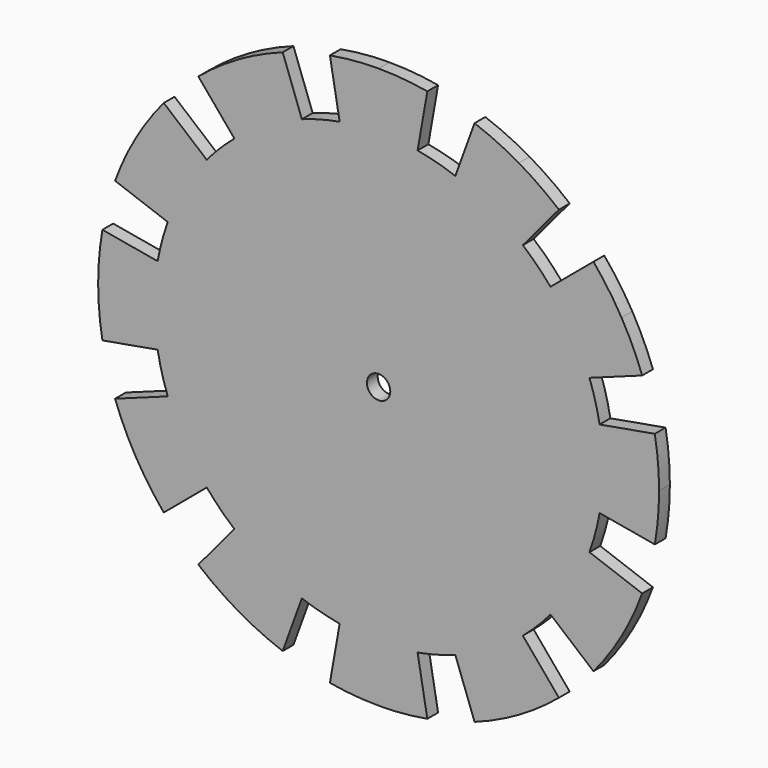
from build123d import *

# Parameters (mm, degrees)
F1_DEPTH = 3
F2_R     = 2.6
F3_DEPTH = 3.001


with BuildPart() as f1:
    # F0 (on Front) → F1 (new body)
    with BuildSketch(Plane.XZ):
        with BuildLine():
            Line((0, 0), (50, 0))
            ThreePointArc((50, 0), (49.8097349046, 4.3577871374), (49.2403876506, 8.6824088833))
            Line((49.2403876506, 8.6824088833), (0, 0))
        make_face()
        with BuildLine():
            Line((62.5, 0), (50, 0))
            ThreePointArc((50, 0), (49.8097349046, -4.3577871374), (49.2403876506, -8.6824088833))
            Line((49.2403876506, -8.6824088833), (61.5504845633, -10.8530111042))
            ThreePointArc((61.5504845633, -10.8530111042), (62.2621686307, -5.4472339217), (62.5, 0))
        make_face()
        with BuildLine():
            ThreePointArc((49.2403876506, -8.6824088833), (49.8097349046, -4.3577871374), (50, 0))
            Line((50, 0), (0, 0))
            Line((0, 0), (49.2403876506, -8.6824088833))
        make_face()
        with BuildLine():
            ThreePointArc((49.2403876506, 8.6824088833), (49.8097349046, 4.3577871374), (50, 0))
            Line((50, 0), (62.5, 0))
            ThreePointArc((62.5, 0), (62.2621686307, 5.4472339217), (61.5504845633, 10.8530111042))
            Line((61.5504845633, 10.8530111042), (49.2403876506, 8.6824088833))
        make_face()
        with BuildLine():
            Line((0, 0), (49.2403876506, 8.6824088833))
            ThreePointArc((49.2403876506, 8.6824088833), (48.2962913145, 12.9409522551), (46.9846310393, 17.1010071663))
            Line((46.9846310393, 17.1010071663), (0, 0))
        make_face()
        with BuildLine():
            ThreePointArc((46.9846310393, -17.1010071663), (48.2962913145, -12.9409522551), (49.2403876506, -8.6824088833))
            Line((49.2403876506, -8.6824088833), (0, 0))
            Line((0, 0), (46.9846310393, -17.1010071663))
        make_face()
        with BuildLine():
            Line((-8.6824088833, 49.2403876506), (0, 0))
            Line((0, 0), (0, 50))
            ThreePointArc((0, 50), (-4.3577871374, 49.8097349046), (-8.6824088833, 49.2403876506))
        make_face()
        with BuildLine():
            Line((8.6824088833, -49.2403876506), (0, 0))
            Line((0, 0), (0, -50))
            ThreePointArc((0, -50), (4.3577871374, -49.8097349046), (8.6824088833, -49.2403876506))
        make_face()
        with BuildLine():
            Line((-49.2403876506, -8.6824088833), (0, 0))
            Line((0, 0), (-50, 0))
            ThreePointArc((-50, 0), (-49.8097349046, -4.3577871374), (-49.2403876506, -8.6824088833))
        make_face()
        with BuildLine():
            Line((17.1010071663, 46.9846310393), (0, 0))
            Line((0, 0), (25, 43.3012701892))
            ThreePointArc((25, 43.3012701892), (21.130913087, 45.3153893518), (17.1010071663, 46.9846310393))
        make_face()
        with BuildLine():
            Line((38.3022221559, 32.1393804843), (0, 0))
            Line((0, 0), (43.3012701892, 25))
            ThreePointArc((43.3012701892, 25), (40.9576022144, 28.6788218176), (38.3022221559, 32.1393804843))
        make_face()
        with BuildLine():
            Line((46.9846310393, -17.1010071663), (0, 0))
            Line((0, 0), (43.3012701892, -25))
            ThreePointArc((43.3012701892, -25), (45.3153893518, -21.130913087), (46.9846310393, -17.1010071663))
        make_face()
        with BuildLine():
            Line((32.1393804843, -38.3022221559), (0, 0))
            Line((0, 0), (25, -43.3012701892))
            ThreePointArc((25, -43.3012701892), (28.6788218176, -40.9576022144), (32.1393804843, -38.3022221559))
        make_face()
        with BuildLine():
            Line((-32.1393804843, 38.3022221559), (0, 0))
            Line((0, 0), (-25, 43.3012701892))
            ThreePointArc((-25, 43.3012701892), (-28.6788218176, 40.9576022144), (-32.1393804843, 38.3022221559))
        make_face()
        with BuildLine():
            Line((-46.9846310393, 17.1010071663), (0, 0))
            Line((0, 0), (-43.3012701892, 25))
            ThreePointArc((-43.3012701892, 25), (-45.3153893518, 21.130913087), (-46.9846310393, 17.1010071663))
        make_face()
        with BuildLine():
            Line((-38.3022221559, -32.1393804843), (0, 0))
            Line((0, 0), (-43.3012701892, -25))
            ThreePointArc((-43.3012701892, -25), (-40.9576022144, -28.6788218176), (-38.3022221559, -32.1393804843))
        make_face()
        with BuildLine():
            Line((-17.1010071663, -46.9846310393), (0, 0))
            Line((0, 0), (-25, -43.3012701892))
            ThreePointArc((-25, -43.3012701892), (-21.130913087, -45.3153893518), (-17.1010071663, -46.9846310393))
        make_face()
        with BuildLine():
            Line((-17.1010071663, 46.9846310393), (0, 0))
            Line((0, 0), (-8.6824088833, 49.2403876506))
            ThreePointArc((-8.6824088833, 49.2403876506), (-12.9409522551, 48.2962913145), (-17.1010071663, 46.9846310393))
        make_face()
        with BuildLine():
            Line((0, 50), (0, 0))
            Line((0, 0), (8.6824088833, 49.2403876506))
            ThreePointArc((8.6824088833, 49.2403876506), (4.3577871374, 49.8097349046), (0, 50))
        make_face()
        with BuildLine():
            Line((8.6824088833, 49.2403876506), (0, 0))
            Line((0, 0), (17.1010071663, 46.9846310393))
            ThreePointArc((17.1010071663, 46.9846310393), (12.9409522551, 48.2962913145), (8.6824088833, 49.2403876506))
        make_face()
        with BuildLine():
            Line((25, 43.3012701892), (0, 0))
            Line((0, 0), (32.1393804843, 38.3022221559))
            ThreePointArc((32.1393804843, 38.3022221559), (28.6788218176, 40.9576022144), (25, 43.3012701892))
        make_face()
        with BuildLine():
            Line((32.1393804843, 38.3022221559), (0, 0))
            Line((0, 0), (38.3022221559, 32.1393804843))
            ThreePointArc((38.3022221559, 32.1393804843), (35.3553390593, 35.3553390593), (32.1393804843, 38.3022221559))
        make_face()
        with BuildLine():
            Line((43.3012701892, 25), (0, 0))
            Line((0, 0), (46.9846310393, 17.1010071663))
            ThreePointArc((46.9846310393, 17.1010071663), (45.3153893518, 21.130913087), (43.3012701892, 25))
        make_face()
        with BuildLine():
            Line((43.3012701892, -25), (0, 0))
            Line((0, 0), (38.3022221559, -32.1393804843))
            ThreePointArc((38.3022221559, -32.1393804843), (40.9576022144, -28.6788218176), (43.3012701892, -25))
        make_face()
        with BuildLine():
            Line((38.3022221559, -32.1393804843), (0, 0))
            Line((0, 0), (32.1393804843, -38.3022221559))
            ThreePointArc((32.1393804843, -38.3022221559), (35.3553390593, -35.3553390593), (38.3022221559, -32.1393804843))
        make_face()
        with BuildLine():
            Line((25, -43.3012701892), (0, 0))
            Line((0, 0), (17.1010071663, -46.9846310393))
            ThreePointArc((17.1010071663, -46.9846310393), (21.130913087, -45.3153893518), (25, -43.3012701892))
        make_face()
        with BuildLine():
            Line((17.1010071663, -46.9846310393), (0, 0))
            Line((0, 0), (8.6824088833, -49.2403876506))
            ThreePointArc((8.6824088833, -49.2403876506), (12.9409522551, -48.2962913145), (17.1010071663, -46.9846310393))
        make_face()
        with BuildLine():
            Line((0, -50), (0, 0))
            Line((0, 0), (-8.6824088833, -49.2403876506))
            ThreePointArc((-8.6824088833, -49.2403876506), (-4.3577871374, -49.8097349046), (0, -50))
        make_face()
        with BuildLine():
            Line((-8.6824088833, -49.2403876506), (0, 0))
            Line((0, 0), (-17.1010071663, -46.9846310393))
            ThreePointArc((-17.1010071663, -46.9846310393), (-12.9409522551, -48.2962913145), (-8.6824088833, -49.2403876506))
        make_face()
        with BuildLine():
            Line((-25, -43.3012701892), (0, 0))
            Line((0, 0), (-32.1393804843, -38.3022221559))
            ThreePointArc((-32.1393804843, -38.3022221559), (-28.6788218176, -40.9576022144), (-25, -43.3012701892))
        make_face()
        with BuildLine():
            Line((-32.1393804843, -38.3022221559), (0, 0))
            Line((0, 0), (-38.3022221559, -32.1393804843))
            ThreePointArc((-38.3022221559, -32.1393804843), (-35.3553390593, -35.3553390593), (-32.1393804843, -38.3022221559))
        make_face()
        with BuildLine():
            Line((-43.3012701892, -25), (0, 0))
            Line((0, 0), (-46.9846310393, -17.1010071663))
            ThreePointArc((-46.9846310393, -17.1010071663), (-45.3153893518, -21.130913087), (-43.3012701892, -25))
        make_face()
        with BuildLine():
            Line((-46.9846310393, -17.1010071663), (0, 0))
            Line((0, 0), (-49.2403876506, -8.6824088833))
            ThreePointArc((-49.2403876506, -8.6824088833), (-48.2962913145, -12.9409522551), (-46.9846310393, -17.1010071663))
        make_face()
        with BuildLine():
            Line((-49.2403876506, 8.6824088833), (0, 0))
            Line((0, 0), (-46.9846310393, 17.1010071663))
            ThreePointArc((-46.9846310393, 17.1010071663), (-48.2962913145, 12.9409522551), (-49.2403876506, 8.6824088833))
        make_face()
        with BuildLine():
            Line((-43.3012701892, 25), (0, 0))
            Line((0, 0), (-38.3022221559, 32.1393804843))
            ThreePointArc((-38.3022221559, 32.1393804843), (-40.9576022144, 28.6788218176), (-43.3012701892, 25))
        make_face()
        with BuildLine():
            Line((-38.3022221559, 32.1393804843), (0, 0))
            Line((0, 0), (-32.1393804843, 38.3022221559))
            ThreePointArc((-32.1393804843, 38.3022221559), (-35.3553390593, 35.3553390593), (-38.3022221559, 32.1393804843))
        make_face()
        with BuildLine():
            Line((-25, 43.3012701892), (0, 0))
            Line((0, 0), (-17.1010071663, 46.9846310393))
            ThreePointArc((-17.1010071663, 46.9846310393), (-21.130913087, 45.3153893518), (-25, 43.3012701892))
        make_face()
        with BuildLine():
            Line((-50, 0), (0, 0))
            Line((0, 0), (-49.2403876506, 8.6824088833))
            ThreePointArc((-49.2403876506, 8.6824088833), (-49.8097349046, 4.3577871374), (-50, 0))
        make_face()
        with BuildLine():
            ThreePointArc((43.3012701892, 25), (45.3153893518, 21.130913087), (46.9846310393, 17.1010071663))
            Line((46.9846310393, 17.1010071663), (58.7307887991, 21.3762589579))
            ThreePointArc((58.7307887991, 21.3762589579), (56.6442366898, 26.4136413588), (54.1265877365, 31.25))
            Line((54.1265877365, 31.25), (43.3012701892, 25))
        make_face()
        with BuildLine():
            Line((58.7307887991, -21.3762589579), (46.9846310393, -17.1010071663))
            ThreePointArc((46.9846310393, -17.1010071663), (45.3153893518, -21.130913087), (43.3012701892, -25))
            Line((43.3012701892, -25), (54.1265877365, -31.25))
            ThreePointArc((54.1265877365, -31.25), (56.6442366898, -26.4136413588), (58.7307887991, -21.3762589579))
        make_face()
        with BuildLine():
            Line((0, 62.5), (0, 50))
            ThreePointArc((0, 50), (4.3577871374, 49.8097349046), (8.6824088833, 49.2403876506))
            Line((8.6824088833, 49.2403876506), (10.8530111042, 61.5504845633))
            ThreePointArc((10.8530111042, 61.5504845633), (5.4472339217, 62.2621686307), (0, 62.5))
        make_face()
        with BuildLine():
            ThreePointArc((-8.6824088833, 49.2403876506), (-4.3577871374, 49.8097349046), (0, 50))
            Line((0, 50), (0, 62.5))
            ThreePointArc((0, 62.5), (-5.4472339217, 62.2621686307), (-10.8530111042, 61.5504845633))
            Line((-10.8530111042, 61.5504845633), (-8.6824088833, 49.2403876506))
        make_face()
        with BuildLine():
            Line((0, -62.5), (0, -50))
            ThreePointArc((0, -50), (-4.3577871374, -49.8097349046), (-8.6824088833, -49.2403876506))
            Line((-8.6824088833, -49.2403876506), (-10.8530111042, -61.5504845633))
            ThreePointArc((-10.8530111042, -61.5504845633), (-5.4472339217, -62.2621686307), (0, -62.5))
        make_face()
        with BuildLine():
            ThreePointArc((8.6824088833, -49.2403876506), (4.3577871374, -49.8097349046), (0, -50))
            Line((0, -50), (0, -62.5))
            ThreePointArc((0, -62.5), (5.4472339217, -62.2621686307), (10.8530111042, -61.5504845633))
            Line((10.8530111042, -61.5504845633), (8.6824088833, -49.2403876506))
        make_face()
        with BuildLine():
            Line((-62.5, 0), (-50, 0))
            ThreePointArc((-50, 0), (-49.8097349046, 4.3577871374), (-49.2403876506, 8.6824088833))
            Line((-49.2403876506, 8.6824088833), (-61.5504845633, 10.8530111042))
            ThreePointArc((-61.5504845633, 10.8530111042), (-62.2621686307, 5.4472339217), (-62.5, 0))
        make_face()
        with BuildLine():
            ThreePointArc((-49.2403876506, -8.6824088833), (-49.8097349046, -4.3577871374), (-50, 0))
            Line((-50, 0), (-62.5, 0))
            ThreePointArc((-62.5, 0), (-62.2621686307, -5.4472339217), (-61.5504845633, -10.8530111042))
            Line((-61.5504845633, -10.8530111042), (-49.2403876506, -8.6824088833))
        make_face()
        with BuildLine():
            Line((31.25, 54.1265877365), (25, 43.3012701892))
            ThreePointArc((25, 43.3012701892), (28.6788218176, 40.9576022144), (32.1393804843, 38.3022221559))
            Line((32.1393804843, 38.3022221559), (40.1742256054, 47.8777776949))
            ThreePointArc((40.1742256054, 47.8777776949), (35.8485272719, 51.1970027681), (31.25, 54.1265877365))
        make_face()
        with BuildLine():
            ThreePointArc((17.1010071663, 46.9846310393), (21.130913087, 45.3153893518), (25, 43.3012701892))
            Line((25, 43.3012701892), (31.25, 54.1265877365))
            ThreePointArc((31.25, 54.1265877365), (26.4136413588, 56.6442366898), (21.3762589579, 58.7307887991))
            Line((21.3762589579, 58.7307887991), (17.1010071663, 46.9846310393))
        make_face()
        with BuildLine():
            ThreePointArc((38.3022221559, 32.1393804843), (40.9576022144, 28.6788218176), (43.3012701892, 25))
            Line((43.3012701892, 25), (54.1265877365, 31.25))
            ThreePointArc((54.1265877365, 31.25), (51.1970027681, 35.8485272719), (47.8777776949, 40.1742256054))
            Line((47.8777776949, 40.1742256054), (38.3022221559, 32.1393804843))
        make_face()
        with BuildLine():
            Line((54.1265877365, -31.25), (43.3012701892, -25))
            ThreePointArc((43.3012701892, -25), (40.9576022144, -28.6788218176), (38.3022221559, -32.1393804843))
            Line((38.3022221559, -32.1393804843), (47.8777776949, -40.1742256054))
            ThreePointArc((47.8777776949, -40.1742256054), (51.1970027681, -35.8485272719), (54.1265877365, -31.25))
        make_face()
        with BuildLine():
            Line((31.25, -54.1265877365), (25, -43.3012701892))
            ThreePointArc((25, -43.3012701892), (21.130913087, -45.3153893518), (17.1010071663, -46.9846310393))
            Line((17.1010071663, -46.9846310393), (21.3762589579, -58.7307887991))
            ThreePointArc((21.3762589579, -58.7307887991), (26.4136413588, -56.6442366898), (31.25, -54.1265877365))
        make_face()
        with BuildLine():
            ThreePointArc((32.1393804843, -38.3022221559), (28.6788218176, -40.9576022144), (25, -43.3012701892))
            Line((25, -43.3012701892), (31.25, -54.1265877365))
            ThreePointArc((31.25, -54.1265877365), (35.8485272719, -51.1970027681), (40.1742256054, -47.8777776949))
            Line((40.1742256054, -47.8777776949), (32.1393804843, -38.3022221559))
        make_face()
        with BuildLine():
            Line((-31.25, 54.1265877365), (-25, 43.3012701892))
            ThreePointArc((-25, 43.3012701892), (-21.130913087, 45.3153893518), (-17.1010071663, 46.9846310393))
            Line((-17.1010071663, 46.9846310393), (-21.3762589579, 58.7307887991))
            ThreePointArc((-21.3762589579, 58.7307887991), (-26.4136413588, 56.6442366898), (-31.25, 54.1265877365))
        make_face()
        with BuildLine():
            ThreePointArc((-32.1393804843, 38.3022221559), (-28.6788218176, 40.9576022144), (-25, 43.3012701892))
            Line((-25, 43.3012701892), (-31.25, 54.1265877365))
            ThreePointArc((-31.25, 54.1265877365), (-35.8485272719, 51.1970027681), (-40.1742256054, 47.8777776949))
            Line((-40.1742256054, 47.8777776949), (-32.1393804843, 38.3022221559))
        make_face()
        with BuildLine():
            Line((-54.1265877365, 31.25), (-43.3012701892, 25))
            ThreePointArc((-43.3012701892, 25), (-40.9576022144, 28.6788218176), (-38.3022221559, 32.1393804843))
            Line((-38.3022221559, 32.1393804843), (-47.8777776949, 40.1742256054))
            ThreePointArc((-47.8777776949, 40.1742256054), (-51.1970027681, 35.8485272719), (-54.1265877365, 31.25))
        make_face()
        with BuildLine():
            ThreePointArc((-46.9846310393, 17.1010071663), (-45.3153893518, 21.130913087), (-43.3012701892, 25))
            Line((-43.3012701892, 25), (-54.1265877365, 31.25))
            ThreePointArc((-54.1265877365, 31.25), (-56.6442366898, 26.4136413588), (-58.7307887991, 21.3762589579))
            Line((-58.7307887991, 21.3762589579), (-46.9846310393, 17.1010071663))
        make_face()
        with BuildLine():
            Line((-54.1265877365, -31.25), (-43.3012701892, -25))
            ThreePointArc((-43.3012701892, -25), (-45.3153893518, -21.130913087), (-46.9846310393, -17.1010071663))
            Line((-46.9846310393, -17.1010071663), (-58.7307887991, -21.3762589579))
            ThreePointArc((-58.7307887991, -21.3762589579), (-56.6442366898, -26.4136413588), (-54.1265877365, -31.25))
        make_face()
        with BuildLine():
            ThreePointArc((-38.3022221559, -32.1393804843), (-40.9576022144, -28.6788218176), (-43.3012701892, -25))
            Line((-43.3012701892, -25), (-54.1265877365, -31.25))
            ThreePointArc((-54.1265877365, -31.25), (-51.1970027681, -35.8485272719), (-47.8777776949, -40.1742256054))
            Line((-47.8777776949, -40.1742256054), (-38.3022221559, -32.1393804843))
        make_face()
        with BuildLine():
            Line((-31.25, -54.1265877365), (-25, -43.3012701892))
            ThreePointArc((-25, -43.3012701892), (-28.6788218176, -40.9576022144), (-32.1393804843, -38.3022221559))
            Line((-32.1393804843, -38.3022221559), (-40.1742256054, -47.8777776949))
            ThreePointArc((-40.1742256054, -47.8777776949), (-35.8485272719, -51.1970027681), (-31.25, -54.1265877365))
        make_face()
        with BuildLine():
            ThreePointArc((-17.1010071663, -46.9846310393), (-21.130913087, -45.3153893518), (-25, -43.3012701892))
            Line((-25, -43.3012701892), (-31.25, -54.1265877365))
            ThreePointArc((-31.25, -54.1265877365), (-26.4136413588, -56.6442366898), (-21.3762589579, -58.7307887991))
            Line((-21.3762589579, -58.7307887991), (-17.1010071663, -46.9846310393))
        make_face()
    extrude(amount=F1_DEPTH)

    # F2 (on face) → F3 (cut, through all)
    with BuildSketch(Plane.XZ.offset(3)):
        Circle(F2_R)
    extrude(amount=-F3_DEPTH, mode=Mode.SUBTRACT)


solid = f1.part
